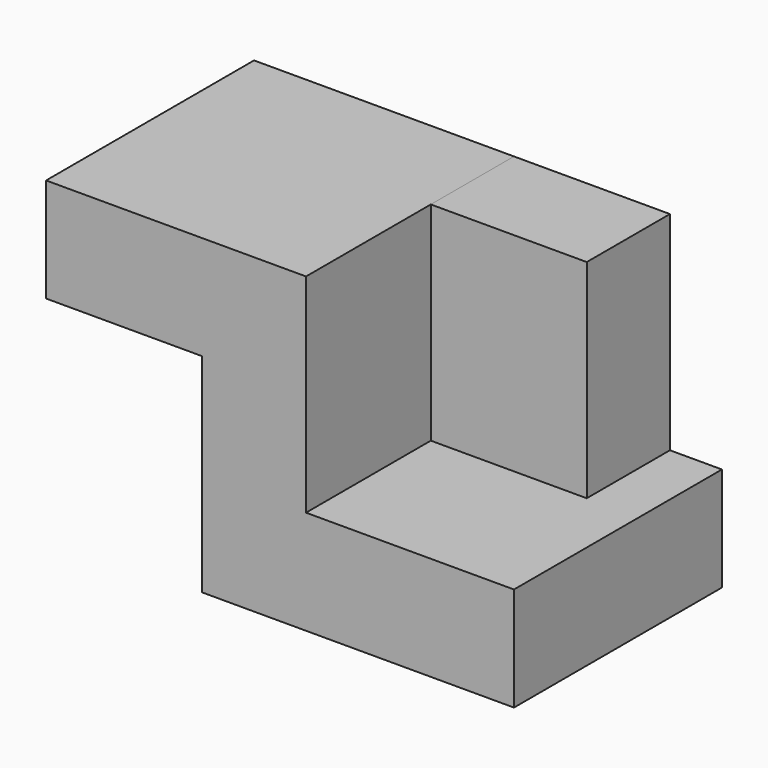
from build123d import *

# Parameters (mm, degrees)
F1_DEPTH = 63.5
F2_W     = 38.1
F2_H     = 50.8
F3_DEPTH = 25.4


with BuildPart() as f1:
    # F0 (on Front) → F1 (new body)
    with BuildSketch(Plane.XZ):
        Polygon((3.028983, 50.8), (-60.471017, 50.8), (-60.471017, 25.4), (-22.371017, 25.4), (-22.371017, -25.4), (53.828983, -25.4), (53.828983, 0), (3.028983, 0), align=None)
    extrude(amount=F1_DEPTH)


with BuildPart() as f3:
    # F2 (on face) → F3 (new body)
    with BuildSketch(Plane(origin=(0, 0, 0), x_dir=(-1, 0, 0), z_dir=(0, 1, 0))):
        with Locations((-22.078983, 25.4)):
            Rectangle(F2_W, F2_H)
    extrude(amount=-F3_DEPTH)


solid = Compound([f1.part, f3.part])
